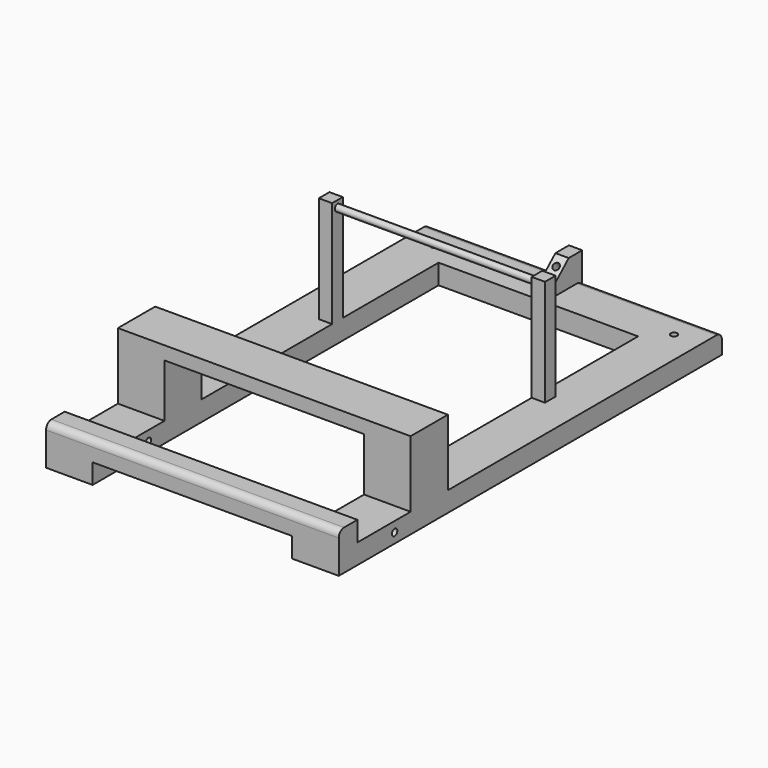
from build123d import *

# Parameters (mm, degrees)
F0_W      = 914.4
F0_H      = 38.1
F1_DEPTH  = 88.9
F2_W      = 88.9
F2_H      = 44.45
F2_W_2    = 469.9
F3_DEPTH  = 38.1
F4_W      = 88.9
F4_H      = 44.45
F4_H_2    = 869.95
F5_DEPTH  = 38.1
F6_R      = 6.35
F7_DEPTH  = 558.801
F9_W      = 25.4
F9_H      = 25.4
F10_DEPTH = 203.2
F11_W     = 25.4
F11_H     = 25.4
F12_DEPTH = 203.2
F13_R     = 6.35
F14_DEPTH = 406.4
F15_W     = 88.9
F15_H     = 38.1
F16_DEPTH = 381
F17_R     = 6.35
F18_DEPTH = 38.1
F19_W     = 25.4
F19_H     = 88.9
F20_DEPTH = 50.8
F21_R     = 12.7
F23_DEPTH = 25.4
F24_R     = 6.35
F25_DEPTH = 101.6
F26_W     = 88.9
F26_H     = 88.9
F27_DEPTH = 101.6
F28_W     = 469.9
F28_H     = 88.9
F28_W_2   = 558.8
F29_DEPTH = 25.4


with BuildPart() as f1:
    # F0 (on Right) → F1 (new body)
    with BuildSketch(Plane.YZ):
        with Locations((457.2, 19.05)):
            Rectangle(F0_W, F0_H)
    extrude(amount=F1_DEPTH)

    # F2 (on face) → F3 (join)
    with BuildSketch(Plane.XY.offset(38.1)):
        with Locations((44.45, 22.225)):
            Rectangle(F2_W, F2_H)
        with Locations((-234.95, 22.225)):
            Rectangle(F2_W_2, F2_H)
    extrude(amount=F3_DEPTH)

    # F4 (on face) → F5 (join)
    with BuildSketch(Plane(origin=(0, 0, 38.1), x_dir=(1, 0, 0), z_dir=(0, 0, -1))):
        with Locations((-425.45, -22.225)):
            Rectangle(F4_W, F4_H)
        with Locations((-425.45, -479.425)):
            Rectangle(F4_W, F4_H_2)
    extrude(amount=F5_DEPTH)

    # F6 (on face) → F7 (cut, through all)
    with BuildSketch(Plane(origin=(-469.9, 0, 0), x_dir=(0, -1, 0), z_dir=(-1, 0, 0))):
        with Locations((-133.35, 19.05)):
            Circle(F6_R)
    extrude(amount=-F7_DEPTH, mode=Mode.SUBTRACT)

    # F9 (on face) → F10 (join)
    with BuildSketch(Plane.XY.offset(38.1)):
        with Locations((12.7, 584.2)):
            Rectangle(F9_W, F9_H)
    extrude(amount=F10_DEPTH)

    # F11 (on face) → F12 (join)
    with BuildSketch(Plane.XY.offset(38.1)):
        with Locations((-393.7, 584.2)):
            Rectangle(F11_W, F11_H)
    extrude(amount=F12_DEPTH)

    # F13 (on face) → F14 (join)
    with BuildSketch(Plane(origin=(0, 0, 0), x_dir=(0, -1, 0), z_dir=(-1, 0, 0))):
        with Locations((-584.2, 228.6)):
            Circle(F13_R)
    extrude(amount=F14_DEPTH)

    # F15 (on face) → F16 (join)
    with BuildSketch(Plane(origin=(0, 0, 0), x_dir=(0, -1, 0), z_dir=(-1, 0, 0))):
        with Locations((-869.95, 19.05)):
            Rectangle(F15_W, F15_H)
    extrude(amount=F16_DEPTH)

    # F17 (on face) → F18 (cut)
    with BuildSketch(Plane.XY.offset(38.1)):
        with Locations((38.1, 863.6)):
            Circle(F17_R)
        with Locations((-419.1, 863.6)):
            Circle(F17_R)
    extrude(amount=-F18_DEPTH, mode=Mode.SUBTRACT)

    # F19 (on face) → F20 (join)
    with BuildSketch(Plane.XY.offset(38.1)):
        with Locations((-190.5, 869.95)):
            Rectangle(F19_W, F19_H)
    extrude(amount=F20_DEPTH)

    # F21
    f21_edges = [f1.edges().sort_by_distance(p)[0] for p in [
        (-336.55, 914.4, 38.1),
        (-44.45, 914.4, 38.1),
        (-190.5, 0, 76.2),
    ]]
    fillet(f21_edges, radius=F21_R)

    # F22 (on face) → F23 (cut)
    with BuildSketch(Plane(origin=(-203.2, 0, 0), x_dir=(0, -1, 0), z_dir=(-1, 0, 0))):
        Polygon((-825.5, 88.9), (-882.1451067924, 88.9), (-825.5, 38.1), align=None)
    extrude(amount=-F23_DEPTH, mode=Mode.SUBTRACT)

    # F24 (on face) → F25 (cut)
    with BuildSketch(Plane(origin=(0, 349.0370188612, -389.197622203), x_dir=(1, 0, 0), z_dir=(0, -0.667652347, 0.7444731987))):
        with Locations((-190.5, 697.0376830206)):
            Circle(F24_R)
    extrude(amount=-F25_DEPTH, mode=Mode.SUBTRACT)

    # F26 (on face) → F27 (join)
    with BuildSketch(Plane.XY.offset(38.1)):
        with Locations((-425.45, 215.9)):
            Rectangle(F26_W, F26_H)
        with Locations((44.45, 215.9)):
            Rectangle(F26_W, F26_H)
    extrude(amount=F27_DEPTH)

    # F28 (on face) → F29 (join)
    with BuildSketch(Plane.XY.offset(139.7)):
        with Locations((-146.05, 215.9)):
            Rectangle(F28_W, F28_H)
        with Locations((-190.5, 215.9)):
            Rectangle(F28_W_2, F28_H)
    extrude(amount=F29_DEPTH)


solid = f1.part
